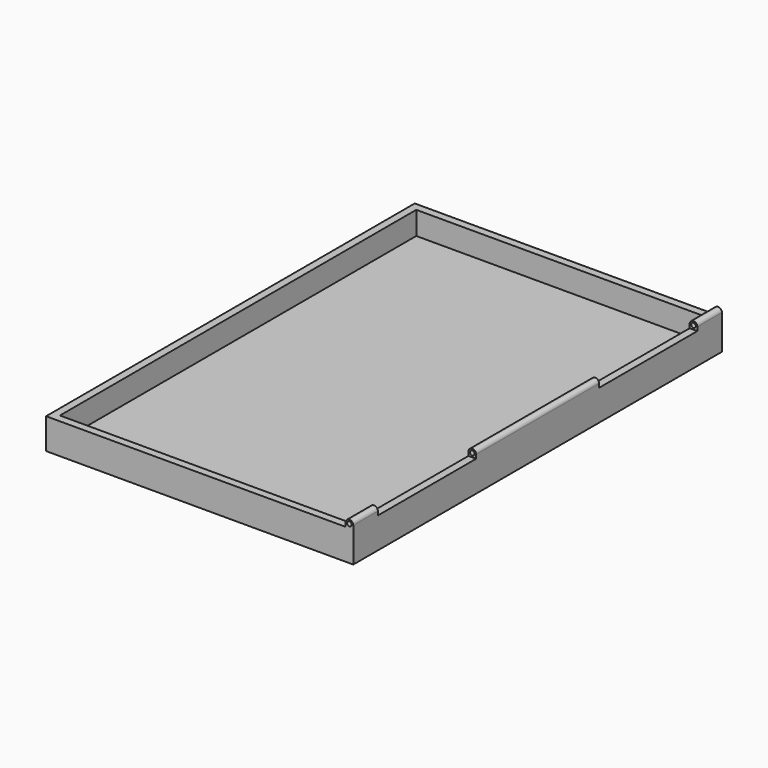
from build123d import *

# Parameters (mm, degrees)
F0_W     = 254
F0_H     = 381
F0_W_2   = 241.3
F0_H_2   = 368.3
F1_DEPTH = 25.4
F2_DEPTH = 6.35
F4_START = -127
F3_R     = 1.905
F4_DEPTH = 127
F5_DEPTH = 25.4
F6_START = -355.6
F6_DEPTH = 25.4


with BuildPart() as f1:
    # F0 (on Top) → F1 (new body)
    with BuildSketch(Plane.XY):
        Rectangle(F0_W, F0_H)
        Rectangle(F0_W_2, F0_H_2, mode=Mode.SUBTRACT)
    extrude(amount=F1_DEPTH)

    # F0 (on Top) → F2 (join)
    with BuildSketch(Plane.XY):
        Rectangle(F0_W_2, F0_H_2)
    extrude(amount=F2_DEPTH)

    # F3 (on face) → F4 (join)
    with BuildSketch(Plane.XZ.offset(190.5).offset(F4_START)):
        with BuildLine():
            Line((120.65, 25.4), (127, 25.4))
            Line((127, 25.4), (127, 28.575))
            ThreePointArc((127, 28.575), (123.825, 31.75), (120.65, 28.575))
            Line((120.65, 28.575), (120.65, 25.4))
        make_face()
        with Locations((123.825, 28.575)):
            Circle(F3_R, mode=Mode.SUBTRACT)
    extrude(amount=-F4_DEPTH)

    # F3 (on face) → F5 (join)
    with BuildSketch(Plane.XZ.offset(190.5)):
        with BuildLine():
            Line((120.65, 25.4), (127, 25.4))
            Line((127, 25.4), (127, 28.575))
            ThreePointArc((127, 28.575), (123.825, 31.75), (120.65, 28.575))
            Line((120.65, 28.575), (120.65, 25.4))
        make_face()
        with Locations((123.825, 28.575)):
            Circle(F3_R, mode=Mode.SUBTRACT)
    extrude(amount=-F5_DEPTH)

    # F3 (on face) → F6 (join)
    with BuildSketch(Plane.XZ.offset(190.5).offset(F6_START)):
        with BuildLine():
            Line((120.65, 25.4), (127, 25.4))
            Line((127, 25.4), (127, 28.575))
            ThreePointArc((127, 28.575), (123.825, 31.75), (120.65, 28.575))
            Line((120.65, 28.575), (120.65, 25.4))
        make_face()
        with Locations((123.825, 28.575)):
            Circle(F3_R, mode=Mode.SUBTRACT)
    extrude(amount=-F6_DEPTH)


solid = f1.part
